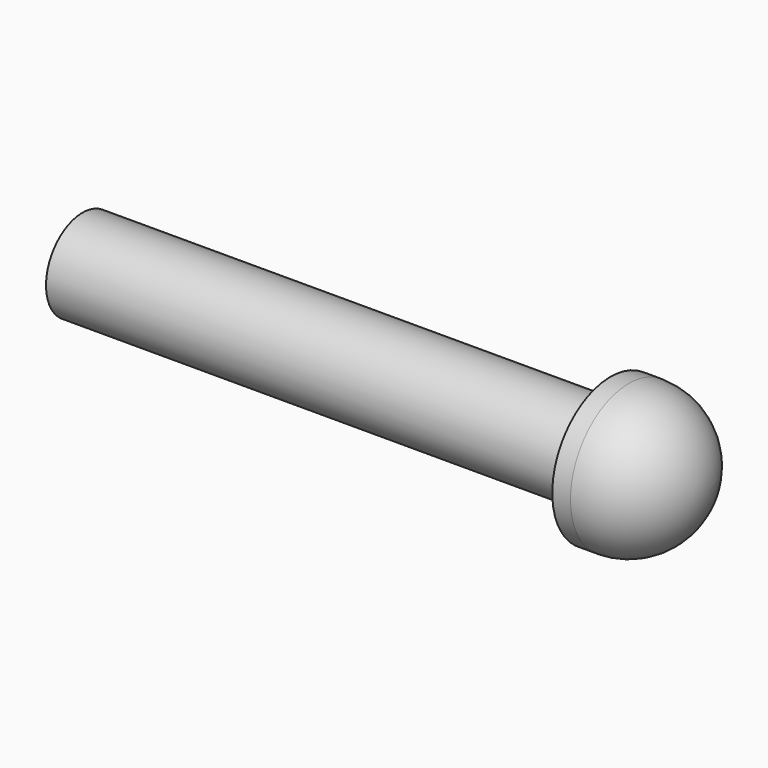
from build123d import *

# Parameters (mm, degrees)
F0_R     = 3.175
F1_DEPTH = 36.83
F2_R     = 5.08
F3_DEPTH = 6.35
F4_R     = 5.08


with BuildPart() as f1:
    # F0 (on Right) → F1 (new body)
    with BuildSketch(Plane.YZ):
        Circle(F0_R)
    extrude(amount=F1_DEPTH)

    # F2 (on face) → F3 (join)
    with BuildSketch(Plane.YZ.offset(36.83)):
        Circle(F2_R)
    extrude(amount=F3_DEPTH)

    # F4
    f4_edges = [f1.edges().sort_by_distance(p)[0] for p in [
        (43.18, -5.08, 0),
    ]]
    fillet(f4_edges, radius=F4_R)


solid = f1.part
